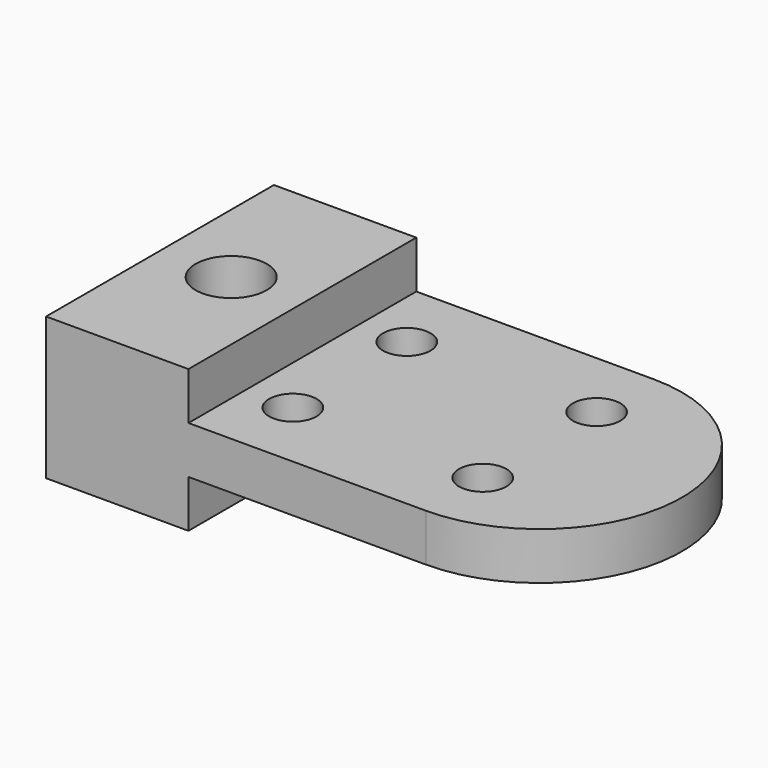
from build123d import *

# Parameters (mm, degrees)
F1_DEPTH = 76.2
F2_R     = 9.525
F3_DEPTH = 38.101
F4_R     = 6.35
F5_DEPTH = 25.4
F6_DEPTH = 12.7


with BuildPart() as f1:
    # F0 (on Front) → F1 (new body)
    with BuildSketch(Plane.XZ):
        Polygon((0, 0.552274), (-38.1, 0.552274), (-38.1, -37.547726), (0, -37.547726), (0, -3.861072), align=None)
    extrude(amount=-F1_DEPTH)

    # F2 (on face) → F3 (cut, through all)
    with BuildSketch(Plane.XY.offset(0.552274)):
        with Locations((-19.05, 38.1)):
            Circle(F2_R)
    extrude(amount=-F3_DEPTH, mode=Mode.SUBTRACT)

    # F4 (on face) → F5 (join)
    with BuildSketch(Plane.XY.offset(0.552274)):
        with BuildLine():
            Line((0, 76.2), (0, 0))
            Line((0, 0), (63.5, 0))
            ThreePointArc((63.5, 0), (101.6, 38.1), (63.5, 76.2))
            Line((63.5, 76.2), (0, 76.2))
        make_face()
        with Locations((12.7, 19.05)):
            Circle(F4_R, mode=Mode.SUBTRACT)
        with Locations((63.5, 19.05)):
            Circle(F4_R, mode=Mode.SUBTRACT)
        with Locations((12.7, 57.15)):
            Circle(F4_R, mode=Mode.SUBTRACT)
        with Locations((63.5, 57.15)):
            Circle(F4_R, mode=Mode.SUBTRACT)
    extrude(amount=-F5_DEPTH)

    # F4 (on face) → F6 (cut)
    with BuildSketch(Plane.XY.offset(0.552274)):
        with BuildLine():
            Line((0, 76.2), (0, 0))
            Line((0, 0), (63.5, 0))
            ThreePointArc((63.5, 0), (101.6, 38.1), (63.5, 76.2))
            Line((63.5, 76.2), (0, 76.2))
        make_face()
        with Locations((12.7, 19.05)):
            Circle(F4_R, mode=Mode.SUBTRACT)
        with Locations((63.5, 19.05)):
            Circle(F4_R, mode=Mode.SUBTRACT)
        with Locations((12.7, 57.15)):
            Circle(F4_R, mode=Mode.SUBTRACT)
        with Locations((63.5, 57.15)):
            Circle(F4_R, mode=Mode.SUBTRACT)
    extrude(amount=-F6_DEPTH, mode=Mode.SUBTRACT)


solid = f1.part
